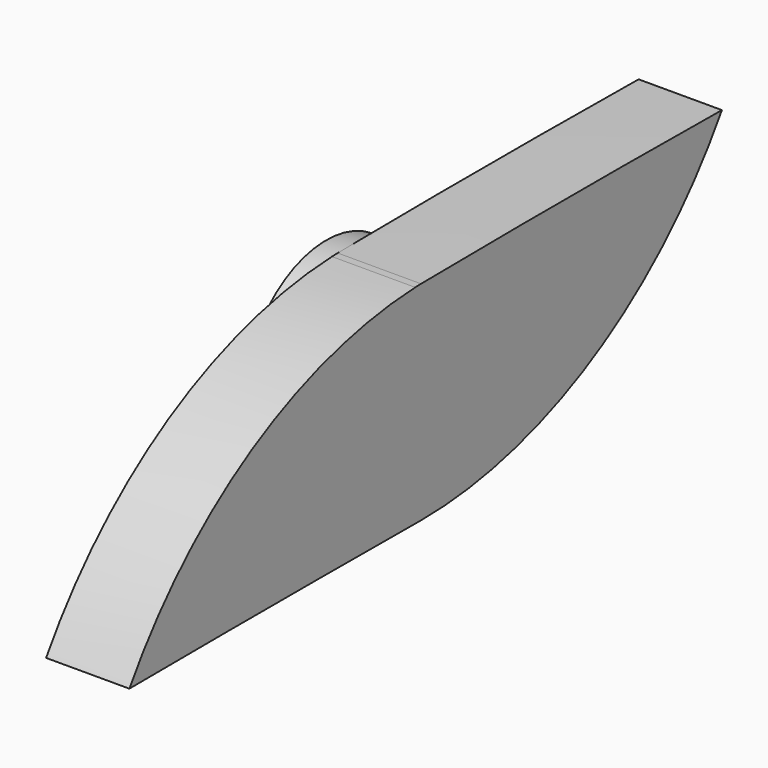
from build123d import *

# Parameters (mm, degrees)
F1_DEPTH = 10.16
F2_R     = 12.675969
F3_DEPTH = 12.7


with BuildPart() as f1:
    # F0 (on Right) → F1 (new body)
    with BuildSketch(Plane.YZ):
        with BuildLine():
            ThreePointArc((0, -12.7), (8.980256, -8.980256), (12.7, 0))
            ThreePointArc((12.7, 0), (8.980256, 8.980256), (0, 12.7))
            ThreePointArc((0, 12.7), (-0.436122, 12.686768), (-0.872122, 12.67002))
            ThreePointArc((-0.872122, 12.67002), (-12.695008, -0.356034), (-0.160643, -12.698984))
            ThreePointArc((-0.160643, -12.698984), (-0.080321, -12.699491), (0, -12.7))
        make_face()
        with BuildLine():
            ThreePointArc((0, 12.7), (8.980256, 8.980256), (12.7, 0))
            ThreePointArc((12.7, 0), (8.980256, -8.980256), (0, -12.7))
            ThreePointArc((0, -12.7), (26.221595, -5.929824), (45.877051, 12.7))
            ThreePointArc((45.877051, 12.7), (22.938525, 12.832797), (0, 12.7))
        make_face()
        with BuildLine():
            ThreePointArc((-0.160643, -12.698984), (-12.695008, -0.356034), (-0.872122, 12.67002))
            ThreePointArc((-0.872122, 12.67002), (-25.79747, 5.372395), (-44.45, -12.7))
            ThreePointArc((-44.45, -12.7), (-22.305323, -12.629463), (-0.160643, -12.698984))
        make_face()
    extrude(amount=F1_DEPTH)

    # F2 (on face) → F3 (join)
    with BuildSketch(Plane.YZ.offset(10.16)):
        with Locations((1.427051, 0)):
            Circle(F2_R)
    extrude(amount=-F3_DEPTH)


solid = f1.part
